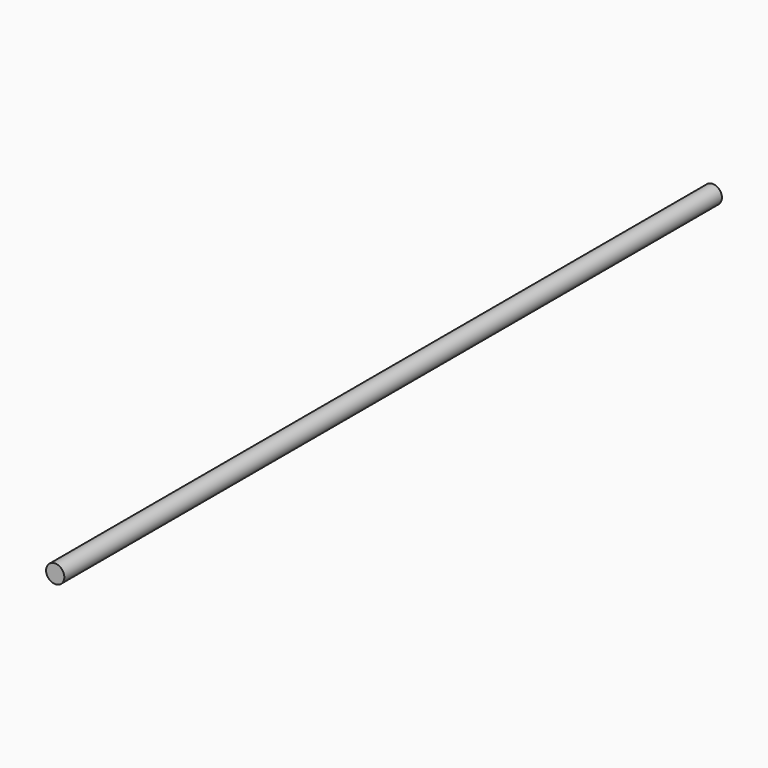
from build123d import *

# Parameters (mm, degrees)
SKETCH_R  = 4
PAD_DEPTH = 360


with BuildPart() as part:
    # Sketch → Pad (new body)
    with BuildSketch(Plane.XZ):
        Circle(SKETCH_R)
    extrude(amount=PAD_DEPTH)


solid = part.part
